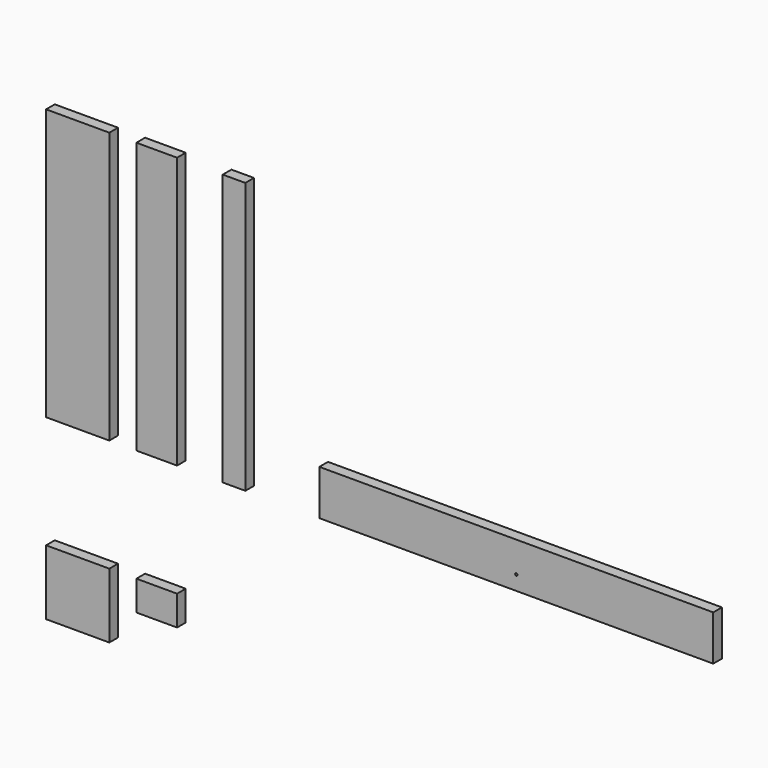
from build123d import *

# Parameters (mm, degrees)
F0_W     = 70
F0_H     = 300
F0_W_2   = 45
F0_W_3   = 25
F0_W_4   = 436
F0_H_2   = 50
F0_R     = 1.25
F0_H_3   = 72
F0_H_4   = 33
F1_DEPTH = 12


with BuildPart() as f1:
    # F0 (on Front) → F1 (new body)
    with BuildSketch(Plane.XZ):
        with Locations((-35, 150)):
            Rectangle(F0_W, F0_H)
        with Locations((52.462726, 150)):
            Rectangle(F0_W_2, F0_H)
        with Locations((138.028529, 150)):
            Rectangle(F0_W_3, F0_H)
        with Locations((450.401127, 25)):
            Rectangle(F0_W_4, F0_H_2)
        with Locations((450.401127, 16)):
            Circle(F0_R, mode=Mode.SUBTRACT)
        with Locations((-35, -160.780145)):
            Rectangle(F0_W, F0_H_3)
        with Locations((52.462726, -141.280145)):
            Rectangle(F0_W_2, F0_H_4)
    extrude(amount=F1_DEPTH)


solid = f1.part
